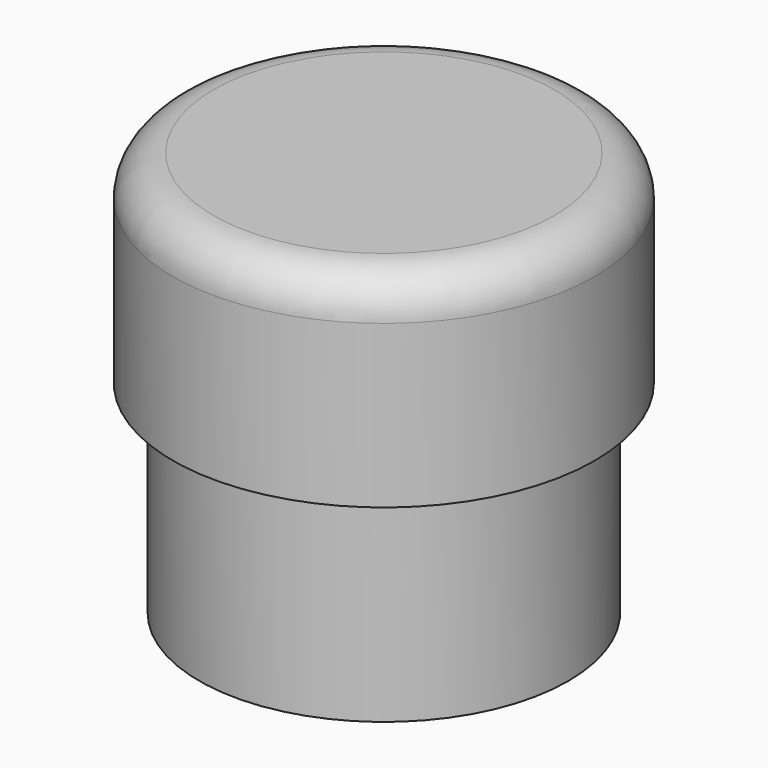
from build123d import *

# Parameters (mm, degrees)
F0_R      = 23.135211
F1_DEPTH  = 25.4
F2_R      = 26.447922
F2_R_2    = 23.135211
F1_FACE_R = 23.135211
F3_DEPTH  = 25.4
F4_R      = 5.08


with BuildPart() as f1:
    # F0 (on Top) → F1 (new body)
    with BuildSketch(Plane.XY):
        Circle(F0_R)
    extrude(amount=F1_DEPTH)

    # F2 (on face) + F1_face (on face) → F3 (join)
    with BuildSketch(Plane.XY.offset(25.4)):
        Circle(F2_R)
        Circle(F2_R_2, mode=Mode.SUBTRACT)
        Circle(F2_R_2)
    with BuildSketch(Plane.XY.offset(25.4)):
        Circle(F1_FACE_R)
    extrude(amount=F3_DEPTH)

    # F4
    f4_edges = [f1.edges().sort_by_distance(p)[0] for p in [
        (-26.447922, 0, 50.8),
    ]]
    fillet(f4_edges, radius=F4_R)


solid = f1.part
